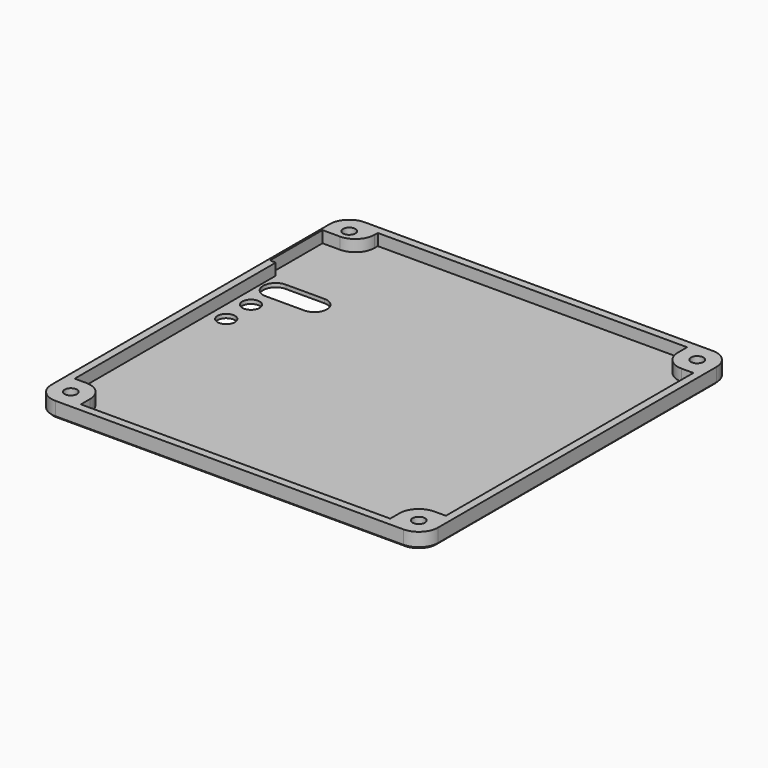
from build123d import *

# Parameters (mm, degrees)
SKETCH_W        = 100
SKETCH_H        = 100
PAD_DEPTH       = 1
SKETCH001_W     = 100
SKETCH001_H     = 100
PAD001_DEPTH    = 3
SKETCH002_R     = 1.6
POCKET_DEPTH    = 3
FILLET_R        = 5
SKETCH004_R     = 2.25
POCKET001_DEPTH = 5
CHAMFER_SIZE    = 0.5


with BuildPart() as part:
    # Sketch → Pad (new body)
    with BuildSketch(Plane.XY):
        with Locations((50, 50)):
            Rectangle(SKETCH_W, SKETCH_H)
    extrude(amount=-PAD_DEPTH)

    # Sketch001 → Pad001 (join)
    with BuildSketch(Plane.XY):
        with Locations((50, 50)):
            Rectangle(SKETCH001_W, SKETCH001_H)
        Polygon((10, 10), (10, 2), (90, 2), (90, 10), (98, 10), (98, 90), (90, 90), (90, 98), (10, 98), (10, 92), (0.5, 92), (0.5, 75), (2, 75), (2, 10), align=None, mode=Mode.SUBTRACT)
    extrude(amount=PAD001_DEPTH)

    # Sketch002 → Pocket (cut, symmetric)
    with BuildSketch(Plane.XY):
        with Locations((5, 95)):
            Circle(SKETCH002_R)
        with Locations((5, 5)):
            Circle(SKETCH002_R)
        with Locations((95, 5)):
            Circle(SKETCH002_R)
        with Locations((95, 95)):
            Circle(SKETCH002_R)
    extrude(amount=POCKET_DEPTH, both=True, mode=Mode.SUBTRACT)

    # Fillet
    fillet_edges = [part.edges().sort_by_distance(p)[0] for p in [
        (100, 100, 1.5),
        (100, 0, 1.5),
        (0, 0, 1.5),
        (0, 100, 1.5),
        (10, 92, 1.5),
        (10, 10, 1.5),
        (90, 10, 1.5),
        (90, 90, 1.5),
    ]]
    fillet(fillet_edges, radius=FILLET_R)

    # Sketch004 (on DatumPlane) → Pocket001 (cut)
    with BuildSketch(Plane.XY):
        with Locations((6, 62)):
            Circle(SKETCH004_R)
        with Locations((6, 54)):
            Circle(SKETCH004_R)
        with BuildLine():
            ThreePointArc((6, 73.25), (2.75, 70), (6, 66.75))
            Line((6, 66.75), (16, 66.75))
            ThreePointArc((16, 66.75), (19.25, 70), (16, 73.25))
            Line((6, 73.25), (16, 73.25))
        make_face()
    extrude(amount=-POCKET001_DEPTH, mode=Mode.SUBTRACT)

    # Chamfer
    chamfer_edges = [part.edges().sort_by_distance(p)[0] for p in [
        (50, 0, -1),
    ]]
    chamfer(chamfer_edges, length=CHAMFER_SIZE)


solid = part.part
